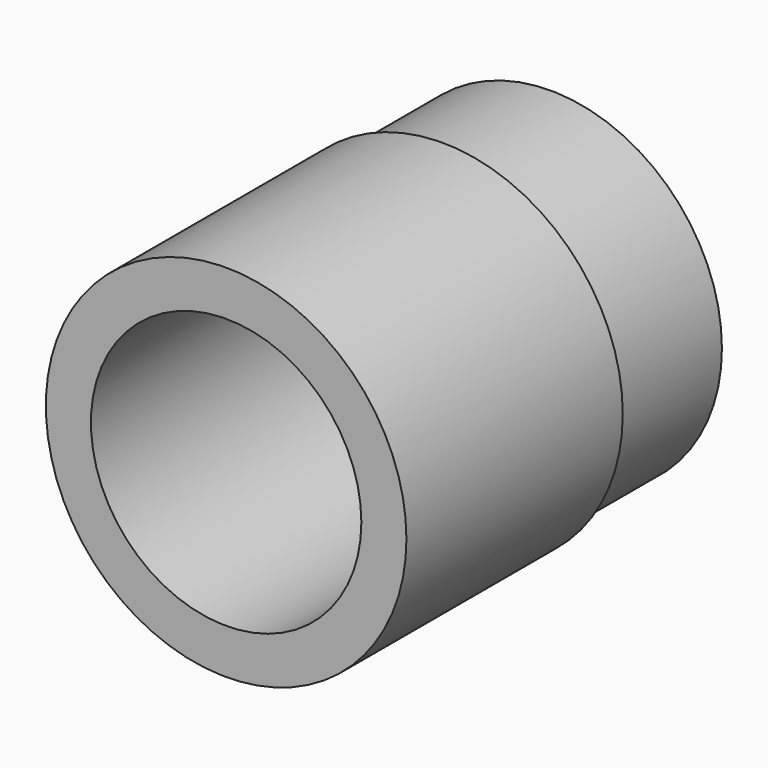
from build123d import *

# Parameters (mm, degrees)
F0_R     = 24.13
F1_DEPTH = 19.05
F2_R     = 25.4
F3_DEPTH = 38.1
F4_R     = 19.05
F5_DEPTH = 57.151


with BuildPart() as f1:
    # F0 (on Front) → F1 (new body)
    with BuildSketch(Plane.XZ):
        Circle(F0_R)
    extrude(amount=-F1_DEPTH)

    # F2 (on face) → F3 (join)
    with BuildSketch(Plane.XZ):
        Circle(F2_R)
    extrude(amount=F3_DEPTH)

    # F4 (on face) → F5 (cut, through all)
    with BuildSketch(Plane.XZ.offset(38.1)):
        Circle(F4_R)
    extrude(amount=-F5_DEPTH, mode=Mode.SUBTRACT)


solid = f1.part
